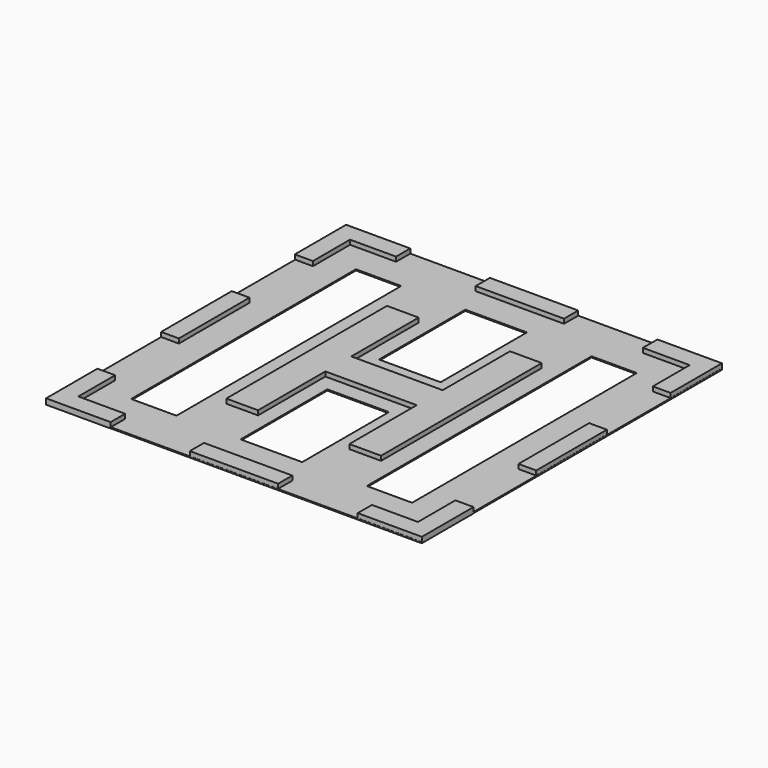
from build123d import *

# Parameters (mm, degrees)
F1_DEPTH = 1.5
F2_W     = 99.436134
F2_H     = 99.436041
F2_W_2   = 12
F2_H_2   = 74.436041
F2_W_3   = 16.312201
F2_H_3   = 28.718512
F2_H_4   = 28.590051
F3_DEPTH = 0.3


with BuildPart() as f1:
    # F0 (on Top) → F1 (new body)
    with BuildSketch(Plane.XY):
        Polygon((-12.1, 4.3), (-12.1, 26.6), (-20.5, 26.6), (-20.5, -26.6), (-12.1, -26.6), (-12.1, -4.3), (0, -4.3), (12.1, -4.3), (12.1, -26.6), (20.5, -26.6), (20.5, 26.6), (12.1, 26.6), (12.1, 4.3), (0, 4.3), align=None)
        Polygon((-11.7, 49.7), (-11.7, 45), (0, 45), (11.7, 45), (11.7, 49.7), (0, 49.7), align=None)
        Polygon((-32.8, 45), (-32.8, 49.7), (-49.8, 49.7), (-49.8, 32.7), (-45, 32.7), (-45, 45), align=None)
        Polygon((-45, 11.7), (-49.7, 11.7), (-49.7, 0), (-49.7, -11.7), (-45, -11.7), (-45, 0), align=None)
        Polygon((-32.6, -45), (-45, -45), (-45, -32.8), (-49.7, -32.8), (-49.7, -49.8), (-32.6, -49.8), align=None)
        Polygon((-11.7, -45), (-11.7, -49.7), (0, -49.7), (11.7, -49.7), (11.7, -45), (0, -45), align=None)
        Polygon((45, -32.6), (45, -45), (32.8, -45), (32.8, -49.7), (49.8, -49.7), (49.8, -32.6), align=None)
        Polygon((45, -11.7), (49.7, -11.7), (49.7, 0), (49.7, 11.7), (45, 11.7), (45, 0), align=None)
        Polygon((32.6, 45), (45, 45), (45, 32.8), (49.7, 32.8), (49.7, 49.8), (32.6, 49.8), align=None)
    extrude(amount=F1_DEPTH)


with BuildPart() as f3:
    # F2 (on Top) → F3 (new body)
    with BuildSketch(Plane.XY):
        with Locations((0.018101, -0.018182)):
            Rectangle(F2_W, F2_H)
        with Locations((-31.199966, -0.018182)):
            Rectangle(F2_W_2, F2_H_2, mode=Mode.SUBTRACT)
        with Locations((-0.047694, -22.876946)):
            Rectangle(F2_W_3, F2_H_3, mode=Mode.SUBTRACT)
        with Locations((31.236168, -0.018182)):
            Rectangle(F2_W_2, F2_H_2, mode=Mode.SUBTRACT)
        with Locations((-0.047694, 22.904813)):
            Rectangle(F2_W_3, F2_H_4, mode=Mode.SUBTRACT)
    extrude(amount=F3_DEPTH)


solid = Compound([f1.part, f3.part])
